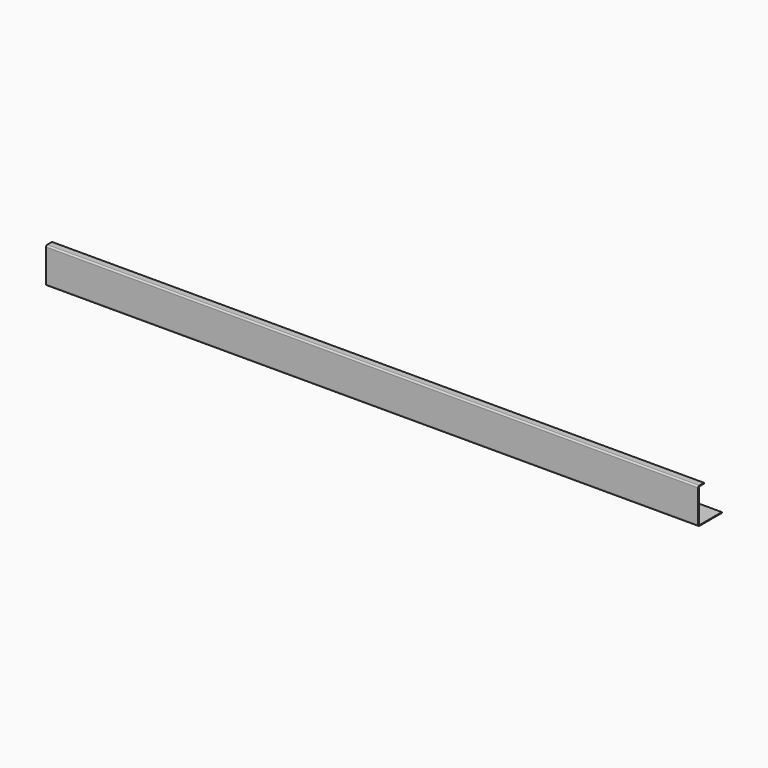
from build123d import *

# Parameters (mm, degrees)
F1_DEPTH = 440


with BuildPart() as f1:
    # F0 (on Right) → F1 (new body)
    with BuildSketch(Plane.YZ):
        with BuildLine():
            Line((-9, -12), (10, -12))
            Line((10, -12), (10, -11.5))
            Line((10, -11.5), (-9, -11.5))
            ThreePointArc((-9, -11.5), (-9.353553, -11.353553), (-9.5, -11))
            Line((-9.5, -11), (-9.5, 11))
            ThreePointArc((-9.5, 11), (-9.353553, 11.353553), (-9, 11.5))
            Line((-9, 11.5), (-5, 11.5))
            Line((-5, 11.5), (-5, 12))
            Line((-5, 12), (-9, 12))
            ThreePointArc((-9, 12), (-9.707107, 11.707107), (-10, 11))
            Line((-10, 11), (-10, -11))
            ThreePointArc((-10, -11), (-9.707107, -11.707107), (-9, -12))
        make_face()
    extrude(amount=-F1_DEPTH)


solid = f1.part
